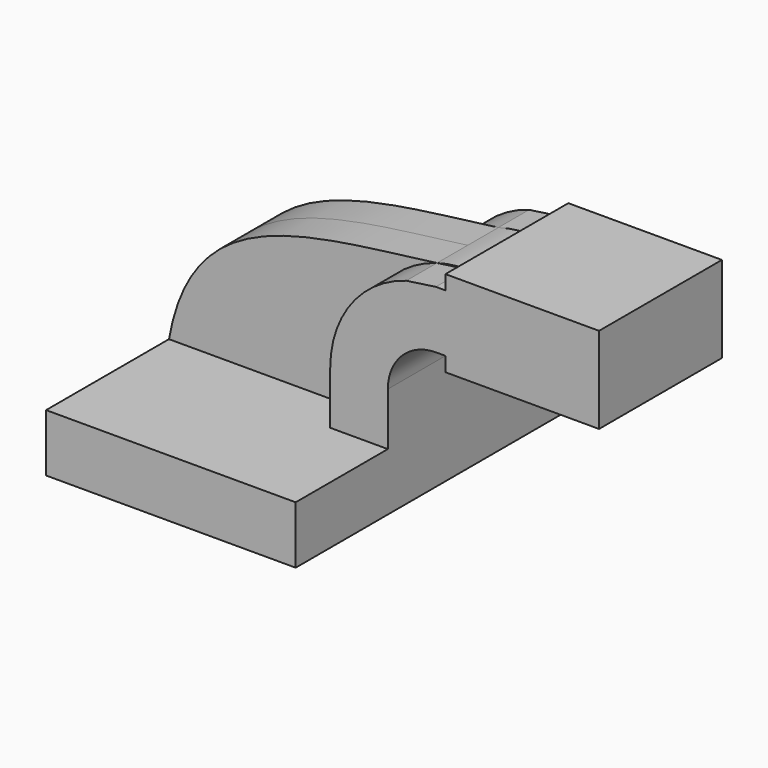
from build123d import *

# Parameters (mm, degrees)
F1_DEPTH = 63.5
F2_DEPTH = 25.4
F3_DEPTH = 12.7


with BuildPart() as f1:
    # F0 (on Front) → F1 (new body, symmetric)
    with BuildSketch(Plane.XZ):
        Polygon((41.275, -9.525), (41.275, 9.525), (22.225, 9.525), (-41.275, 9.525), (-41.275, -9.525), align=None)
    extrude(amount=F1_DEPTH, both=True)

    # F0 (on Front) → F2 (join, symmetric)
    with BuildSketch(Plane.XZ):
        with BuildLine():
            Line((22.225, 9.525), (41.275, 9.525))
            Line((41.275, 9.525), (41.275, 27.0002))
            ThreePointArc((41.275, 27.0002), (45.92468, 38.22552), (57.15, 42.8752))
            Line((57.15, 42.8752), (60.325, 42.8752))
            Line((60.325, 42.8752), (60.325, 61.9252))
            Line((60.325, 61.9252), (57.15, 61.9252))
            add(Edge.make_bspline(
                [(47.359648, 60.524887), (50.585981, 60.958071), (53.852213, 61.418514), (57.15, 61.9252)],
                knots=[103.904847, 103.904847, 103.904847, 103.904847, 111.504536, 111.504536, 111.504536, 111.504536], degree=3))
            ThreePointArc((47.359648, 60.524887), (29.206453, 47.950469), (22.225, 27.0002))
            Line((22.225, 27.0002), (22.225, 9.525))
        make_face()
        Polygon((60.325, 61.9252), (60.325, 42.8752), (60.325, 38.1), (111.125, 38.1), (111.125, 66.675), (60.325, 66.675), align=None)
    extrude(amount=F2_DEPTH, both=True)

    # F0 (on Front) → F3 (join, symmetric)
    with BuildSketch(Plane.XZ):
        Polygon((41.275, -9.525), (41.275, 9.525), (22.225, 9.525), (-41.275, 9.525), (-41.275, -9.525), align=None)
        with BuildLine():
            Line((22.225, 9.525), (41.275, 9.525))
            Line((41.275, 9.525), (41.275, 27.0002))
            ThreePointArc((41.275, 27.0002), (45.92468, 38.22552), (57.15, 42.8752))
            Line((57.15, 42.8752), (60.325, 42.8752))
            Line((60.325, 42.8752), (60.325, 61.9252))
            Line((60.325, 61.9252), (57.15, 61.9252))
            add(Edge.make_bspline(
                [(47.359648, 60.524887), (50.585981, 60.958071), (53.852213, 61.418514), (57.15, 61.9252)],
                knots=[103.904847, 103.904847, 103.904847, 103.904847, 111.504536, 111.504536, 111.504536, 111.504536], degree=3))
            ThreePointArc((47.359648, 60.524887), (29.206453, 47.950469), (22.225, 27.0002))
            Line((22.225, 27.0002), (22.225, 9.525))
        make_face()
        with BuildLine():
            Line((-41.275, 9.525), (22.225, 9.525))
            Line((22.225, 9.525), (22.225, 27.0002))
            ThreePointArc((22.225, 27.0002), (29.206453, 47.950469), (47.359648, 60.524887))
            add(Edge.make_bspline(
                [(-41.275, 9.525), (-33.40458, 53.775256), (3.24841, 54.602289), (47.359648, 60.524887)],
                knots=[0, 0, 0, 0, 103.904847, 103.904847, 103.904847, 103.904847], degree=3))
        make_face()
        with BuildLine():
            ThreePointArc((57.15, 61.9252), (52.205006, 61.573349), (47.359648, 60.524887))
            add(Edge.make_bspline(
                [(47.359648, 60.524887), (50.585981, 60.958071), (53.852213, 61.418514), (57.15, 61.9252)],
                knots=[103.904847, 103.904847, 103.904847, 103.904847, 111.504536, 111.504536, 111.504536, 111.504536], degree=3))
        make_face()
        Polygon((60.325, 61.9252), (60.325, 42.8752), (60.325, 38.1), (111.125, 38.1), (111.125, 66.675), (60.325, 66.675), align=None)
    extrude(amount=F3_DEPTH, both=True)


solid = f1.part
